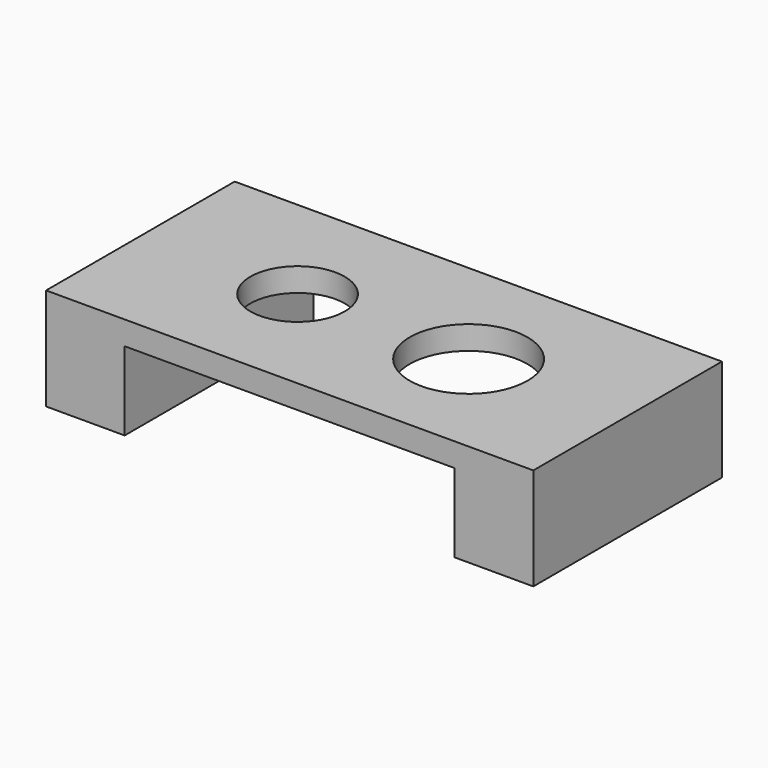
from build123d import *

# Parameters (mm, degrees)
F1_DEPTH = 30
F3_R     = 6
F3_R_2   = 7.5
F4_DEPTH = 13.001


with BuildPart() as f1:
    # F0 (on Front) → F1 (new body)
    with BuildSketch(Plane.XZ):
        Polygon((62, 0), (0, 0), (0, -13), (10, -13), (10, -3), (52, -3), (52, -13), (62, -13), align=None)
    extrude(amount=F1_DEPTH)

    # F3 (on face) → F4 (cut, through all)
    with BuildSketch(Plane.XY):
        with Locations((20, -15)):
            Circle(F3_R)
        with Locations((42, -15.294447)):
            Circle(F3_R_2)
    extrude(amount=-F4_DEPTH, mode=Mode.SUBTRACT)


solid = f1.part
